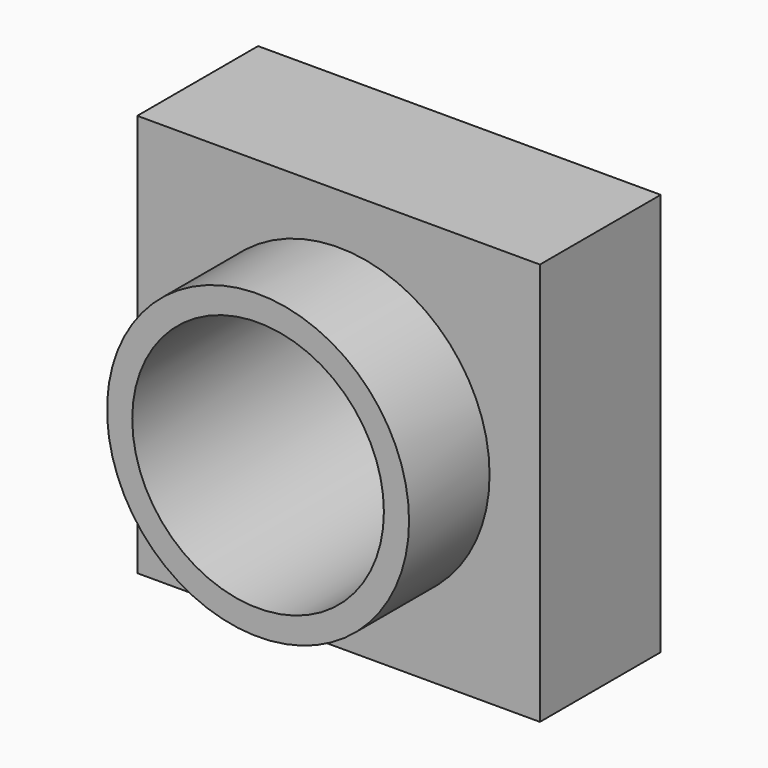
from build123d import *

# Parameters (mm, degrees)
F0_W     = 50.8
F0_H     = 50.8
F1_DEPTH = 19.05
F2_R     = 19.05
F3_DEPTH = 12.7
F4_R     = 15.875
F5_DEPTH = 50.292


with BuildPart() as f1:
    # F0 (on Front) → F1 (new body)
    with BuildSketch(Plane.XZ):
        Rectangle(F0_W, F0_H)
    extrude(amount=F1_DEPTH)

    # F2 (on face) → F3 (join)
    with BuildSketch(Plane.XZ.offset(19.05)):
        Circle(F2_R)
    extrude(amount=F3_DEPTH)

    # F4 (on face) → F5 (cut)
    with BuildSketch(Plane.XZ.offset(31.75)):
        Circle(F4_R)
    extrude(amount=-F5_DEPTH, mode=Mode.SUBTRACT)


solid = f1.part
